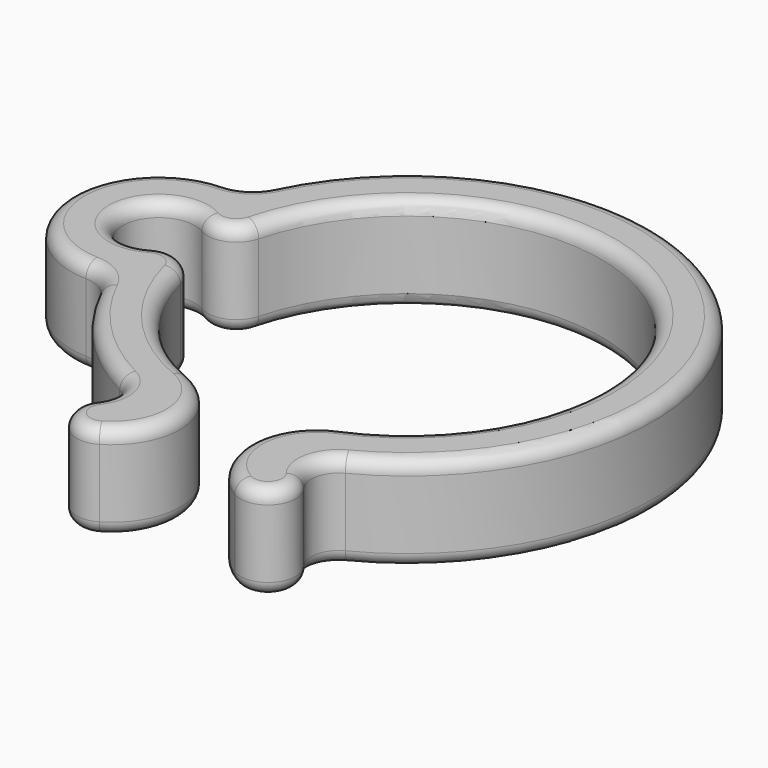
from build123d import *

# Parameters (mm, degrees)
F1_DEPTH = 7
F2_R     = 1


with BuildPart() as f1:
    # F0 (on Top) → F1 (new body)
    with BuildSketch(Plane.XY):
        with BuildLine():
            ThreePointArc((-5.549415, -13.097886), (-10.764349, -9.299431), (-13.765042, -3.58807))
            ThreePointArc((-13.765042, -3.58807), (-15.004999, -2.162659), (-16.890015, -2.289173))
            ThreePointArc((-16.890015, -2.289173), (-20.875, 0), (-16.890015, 2.289173))
            ThreePointArc((-16.890015, 2.289173), (-15.004999, 2.162659), (-13.765042, 3.58807))
            ThreePointArc((-13.765042, 3.58807), (9.299431, 10.764349), (5.549415, -13.097886))
            ThreePointArc((5.549415, -13.097886), (2.510573, -17.37673), (4.968696, -22.013615))
            ThreePointArc((4.968696, -22.013615), (7.528833, -21.603131), (7.612203, -19.011637))
            ThreePointArc((7.612203, -19.011637), (7.242392, -17.356479), (8.276687, -16.012404))
            ThreePointArc((8.276687, -16.012404), (12.578534, 12.910504), (-16.222527, 7.856859))
            ThreePointArc((-16.222527, 7.856859), (-17.115637, 6.846853), (-18.403388, 6.447533))
            ThreePointArc((-18.403388, 6.447533), (-24.675, 0), (-18.403388, -6.447533))
            ThreePointArc((-18.403388, -6.447533), (-17.115637, -6.846853), (-16.222527, -7.856859))
            ThreePointArc((-16.222527, -7.856859), (-12.910504, -12.578534), (-8.276687, -16.012404))
            ThreePointArc((-8.276687, -16.012404), (-7.242392, -17.356479), (-7.612203, -19.011637))
            ThreePointArc((-7.612203, -19.011637), (-7.528833, -21.603131), (-4.968696, -22.013615))
            ThreePointArc((-4.968696, -22.013615), (-2.510573, -17.37673), (-5.549415, -13.097886))
        make_face()
    extrude(amount=F1_DEPTH)

    # F2
    f2_edges = [f1.edges().sort_by_distance(p)[0] for p in [
        (-2.510573, -17.37673, 7),
        (-10.764349, -9.299431, 7),
        (-15.004999, -2.162659, 7),
        (-20.875, 0, 7),
        (-15.004999, 2.162659, 7),
        (9.299431, 10.764349, 7),
        (2.510573, -17.37673, 7),
        (7.528833, -21.603131, 7),
        (7.242392, -17.356479, 7),
        (12.578534, 12.910504, 7),
        (-17.115637, 6.846853, 7),
        (-24.675, 0, 7),
        (-17.115637, -6.846853, 7),
        (-12.910504, -12.578534, 7),
        (-7.242392, -17.356479, 7),
        (-7.528833, -21.603131, 7),
        (-2.510573, -17.37673, 0),
        (-10.764349, -9.299431, 0),
        (-15.004999, -2.162659, 0),
        (-20.875, 0, 0),
        (-15.004999, 2.162659, 0),
        (9.299431, 10.764349, 0),
        (2.510573, -17.37673, 0),
        (7.528833, -21.603131, 0),
        (7.242392, -17.356479, 0),
        (12.578534, 12.910504, 0),
        (-17.115637, 6.846853, 0),
        (-24.675, 0, 0),
        (-17.115637, -6.846853, 0),
        (-12.910504, -12.578534, 0),
        (-7.242392, -17.356479, 0),
        (-7.528833, -21.603131, 0),
    ]]
    fillet(f2_edges, radius=F2_R)


solid = f1.part
